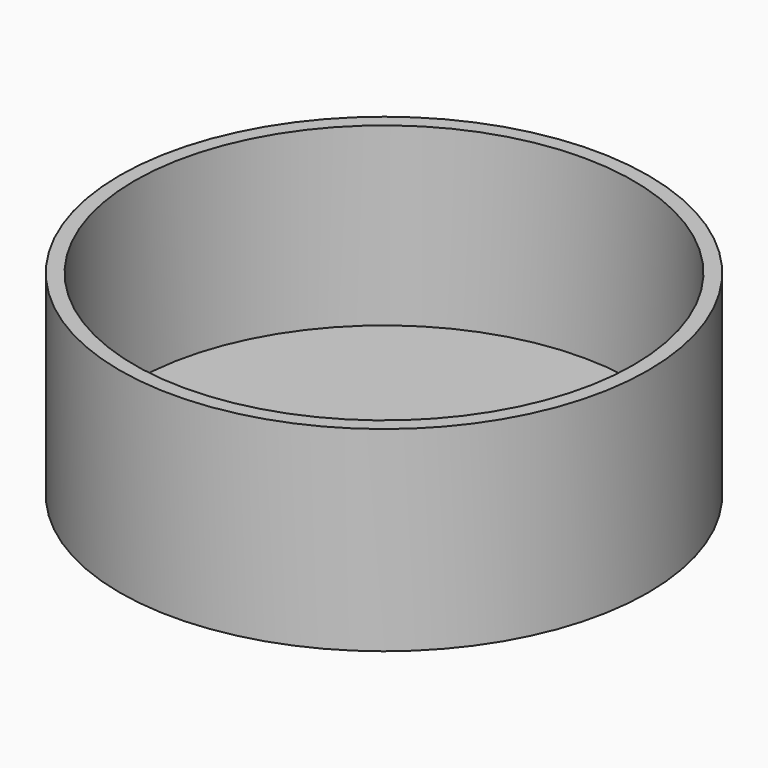
from build123d import *

# Parameters (mm, degrees)
F0_R     = 34.29
F0_R_2   = 32.385
F1_DEPTH = 2.54
F2_DEPTH = 25.4


with BuildPart() as f1:
    # F0 (on Top) → F1 (new body)
    with BuildSketch(Plane.XY):
        Circle(F0_R)
        Circle(F0_R_2, mode=Mode.SUBTRACT)
        Circle(F0_R_2)
    extrude(amount=F1_DEPTH)


with BuildPart() as f2:
    # F0 (on Top) → F2 (new body)
    with BuildSketch(Plane.XY):
        Circle(F0_R)
        Circle(F0_R_2, mode=Mode.SUBTRACT)
    extrude(amount=F2_DEPTH)


solid = Compound([f1.part, f2.part])
